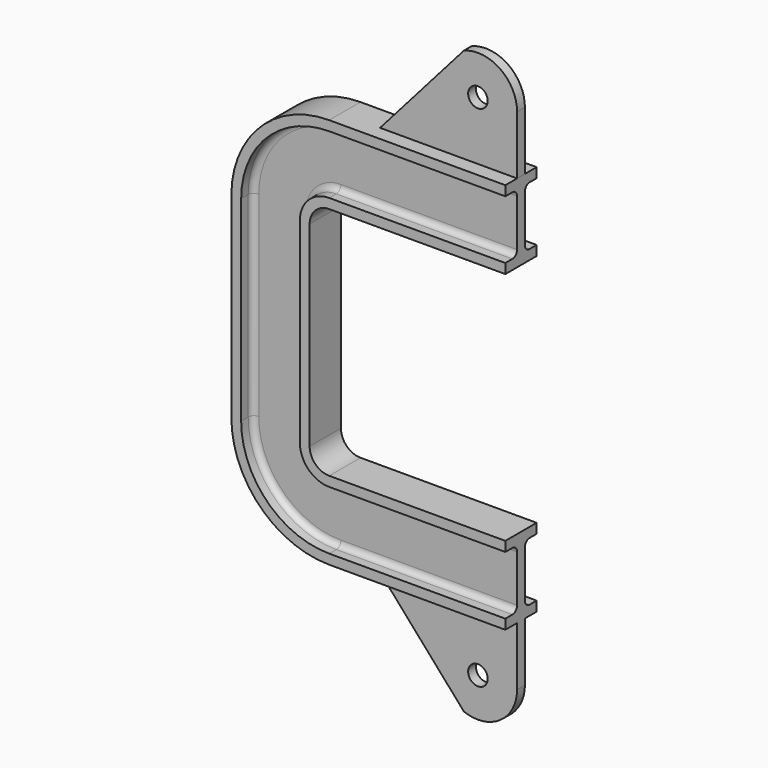
from build123d import *

# Parameters (mm, degrees)
F4_R     = 5
F5_DEPTH = 2.5
F6_DEPTH = 2.5


with BuildPart() as f2:
    # F2: sweep along a path in F0
    with BuildLine(Plane.XZ) as f2_path:
        Line((0, 60), (-90, 60))
        ThreePointArc((-90, 60), (-97.0710678119, 57.0710678119), (-100, 50))
        Line((-100, 50), (-100, 0))
    # F1 (on Right) → F2 (sweep)
    with BuildSketch(Plane.YZ):
        with BuildLine():
            Line((10, 100), (0, 100))
            Line((0, 100), (-10, 100))
            Line((-10, 100), (-10, 95))
            Line((-10, 95), (-5.5, 95))
            ThreePointArc((-5.5, 95), (-3.3786796564, 94.1213203436), (-2.5, 92))
            Line((-2.5, 92), (-2.5, 68))
            ThreePointArc((-2.5, 68), (-3.3786796564, 65.8786796564), (-5.5, 65))
            Line((-5.5, 65), (-10, 65))
            Line((-10, 65), (-10, 60))
            Line((-10, 60), (0, 60))
            Line((0, 60), (10, 60))
            Line((10, 60), (10, 65))
            Line((10, 65), (5.5, 65))
            ThreePointArc((5.5, 65), (3.3786796564, 65.8786796564), (2.5, 68))
            Line((2.5, 68), (2.5, 92))
            ThreePointArc((2.5, 92), (3.3786796564, 94.1213203436), (5.5, 95))
            Line((5.5, 95), (10, 95))
            Line((10, 95), (10, 100))
        make_face()
    sweep(path=f2_path.line)

    # F3: F2 across plane


with BuildPart() as f2_1:
    add(f2.part)
    add(f2.part.mirror(Plane.XY))

    # F4 (on Front) → F6 (join, symmetric)
    with BuildSketch(Plane.XZ):
        with BuildLine():
            Line((0, -130), (0, -100))
            Line((0, -100), (-70, -100))
            Line((-70, -100), (-27.1876231576, -148.6638172233))
            ThreePointArc((-27.1876231576, -148.6638172233), (-8.6808229794, -146.488669794), (0, -130))
        make_face()
        with Locations((-20, -130)):
            Circle(F4_R, mode=Mode.SUBTRACT)
    extrude(amount=F6_DEPTH, both=True)


with BuildPart() as f5:
    # F4 (on Front) → F5 (new body, symmetric)
    with BuildSketch(Plane.XZ):
        with BuildLine():
            Line((-70, 100), (0, 100))
            Line((0, 100), (0, 130))
            ThreePointArc((0, 130), (-8.6808229794, 146.488669794), (-27.1876231576, 148.6638172233))
            Line((-27.1876231576, 148.6638172233), (-70, 100))
        make_face()
        with Locations((-20, 130)):
            Circle(F4_R, mode=Mode.SUBTRACT)
    extrude(amount=F5_DEPTH, both=True)


solid = Compound([f2_1.part, f5.part])
